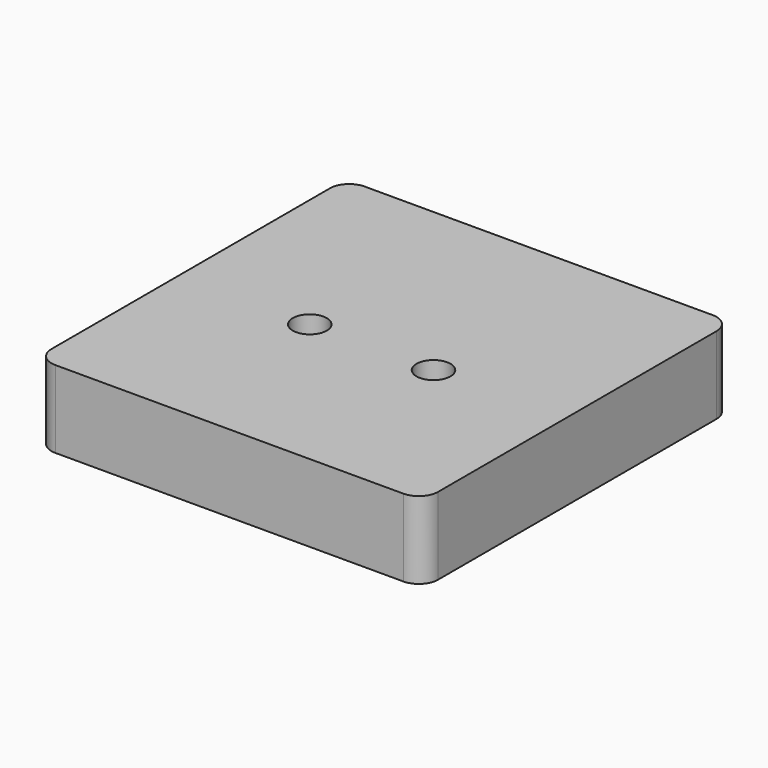
from build123d import *

# Parameters (mm, degrees)
F1_DEPTH       = 20
F3_D           = 8.8
F3_CBORE_D     = 14.25
F3_CBORE_DEPTH = 8
F5_D           = 3.2
F5_DEPTH       = 15
F5_TIP         = 0.9613769904


with BuildPart() as f1:
    # F0 (on Top) → F1 (new body)
    with BuildSketch(Plane.XY):
        with BuildLine():
            ThreePointArc((-50, -45), (-48.5355339059, -48.5355339059), (-45, -50))
            Line((-45, -50), (45, -50))
            ThreePointArc((45, -50), (48.5355339059, -48.5355339059), (50, -45))
            Line((50, -45), (50, 45))
            ThreePointArc((50, 45), (48.5355339059, 48.5355339059), (45, 50))
            Line((45, 50), (-45, 50))
            ThreePointArc((-45, 50), (-48.5355339059, 48.5355339059), (-50, 45))
            Line((-50, 45), (-50, -45))
        make_face()
    extrude(amount=F1_DEPTH)

    # F3 (through all)
    with Locations(Plane(origin=(0, 0, 0), x_dir=(1, 0, 0), z_dir=(0, 0, -1))):
        with Locations((-16, 4), (16, 4)):
            CounterBoreHole(F3_D / 2, F3_CBORE_D / 2, F3_CBORE_DEPTH)

    # F5
    with Locations(Plane(origin=(0, 0, 0), x_dir=(1, 0, 0), z_dir=(0, 0, -1))):
        with Locations((-38, 38), (38, 38), (38, -38), (-38, -38)):
            Hole(F5_D / 2, depth=F5_DEPTH)
            with Locations((0, 0, -(F5_DEPTH + F5_TIP / 2))):  # 118° drill point
                Cone(0, F5_D / 2, F5_TIP, mode=Mode.SUBTRACT)


solid = f1.part
